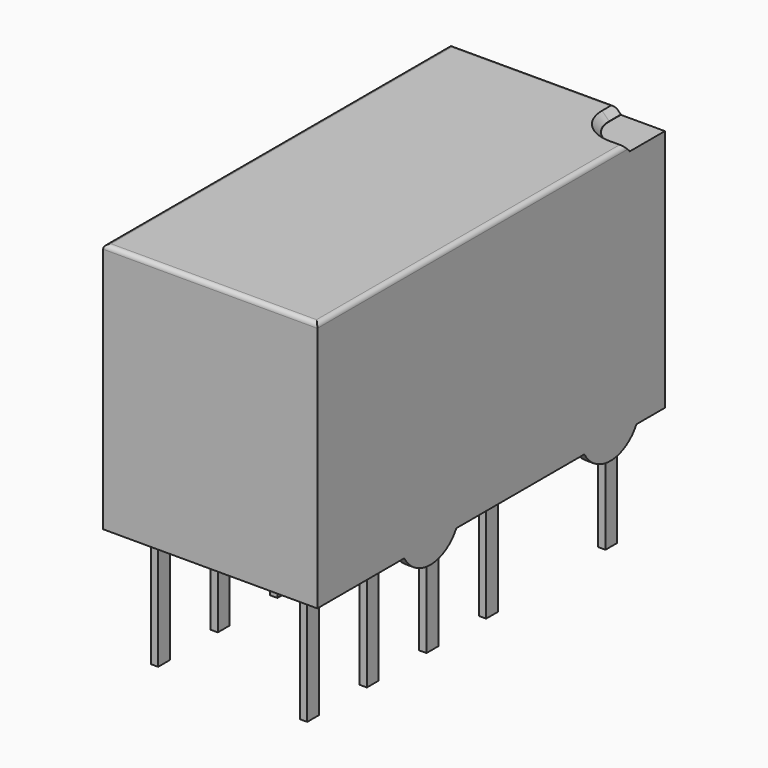
from build123d import *

# Parameters (mm, degrees)
PAD002_DEPTH = 0.3
SKETCH_W     = 14.8
SKETCH_H     = 7.3
PAD_DEPTH    = 8.55
POCKET_DEPTH = 0.25
CHAMFER_SIZE = 0.24
FILLET_R     = 0.15
SKETCH001_W  = 0.5
SKETCH001_H  = 0.25
PAD001_DEPTH = 4
PAD003_DEPTH = 0.3


with BuildPart() as pad002:
    # Sketch003 → Pad002 (new body)
    with BuildSketch(Plane.YZ.offset(6.19)):
        with BuildLine():
            ThreePointArc((-10.21, 1.27), (-8.94, 0), (-7.67, 1.27))
            Line((-10.21, 1.27), (-7.67, 1.27))
        make_face()
        with BuildLine():
            ThreePointArc((-2.54, 1.27), (-1.27, 0), (0, 1.27))
            Line((-2.54, 1.27), (0, 1.27))
        make_face()
    extrude(amount=-PAD002_DEPTH)


with BuildPart() as fillet_body:
    # Sketch → Pad (new body)
    with BuildSketch(Plane(origin=(0, 0, 0.65), x_dir=(0, -1, 0), z_dir=(0, 0, 1))):
        with Locations((6.35, 2.54)):
            Rectangle(SKETCH_W, SKETCH_H)
    extrude(amount=PAD_DEPTH)

    # Sketch002 → Pocket (cut)
    with BuildSketch(Plane(origin=(0, 0, 9.2), x_dir=(0, -1, 0), z_dir=(0, 0, 1))):
        with BuildLine():
            ThreePointArc((-0.55, 4.69), (0.157107, 4.982893), (0.45, 5.690001))
            Line((0.45, 6.19), (0.45, 5.690001))
            Line((-1.05, 6.19), (0.45, 6.19))
            Line((-1.05, 4.69), (-1.05, 6.19))
            Line((-0.55, 4.69), (-1.05, 4.69))
        make_face()
    extrude(amount=-POCKET_DEPTH, mode=Mode.SUBTRACT)

    # Chamfer
    chamfer_edges = [fillet_body.edges().sort_by_distance(p)[0] for p in [
        (4.982893, -0.157107, 9.2),
        (5.94, -0.45, 9.2),
        (4.69, 0.8, 9.2),
    ]]
    chamfer(chamfer_edges, length=CHAMFER_SIZE)

    # Fillet
    fillet_edges = [fillet_body.edges().sort_by_distance(p)[0] for p in [
        (6.19, -7.22, 9.2),
        (1.67, 1.05, 9.2),
        (-1.11, -6.35, 9.2),
        (2.54, -13.75, 9.2),
    ]]
    fillet(fillet_edges, radius=FILLET_R)


with BuildPart() as pad001:
    # Sketch001 → Pad001 (new body)
    with BuildSketch(Plane(origin=(0, 0, 0.6), x_dir=(0, -1, 0), z_dir=(0, 0, 1))):
        Rectangle(SKETCH001_W, SKETCH001_H)
        with Locations((5.08, 0)):
            Rectangle(SKETCH001_W, SKETCH001_H)
        with Locations((0, 5.08)):
            Rectangle(SKETCH001_W, SKETCH001_H)
        with Locations((5.08, 5.08)):
            Rectangle(SKETCH001_W, SKETCH001_H)
        with Locations((7.62, 0)):
            Rectangle(SKETCH001_W, SKETCH001_H)
        with Locations((7.62, 5.08)):
            Rectangle(SKETCH001_W, SKETCH001_H)
        with Locations((10.16, 5.08)):
            Rectangle(SKETCH001_W, SKETCH001_H)
        with Locations((10.16, 0)):
            Rectangle(SKETCH001_W, SKETCH001_H)
        with Locations((12.7, 5.08)):
            Rectangle(SKETCH001_W, SKETCH001_H)
        with Locations((12.7, 0)):
            Rectangle(SKETCH001_W, SKETCH001_H)
    extrude(amount=-PAD001_DEPTH)


with BuildPart() as obj1:
    # Sketch004 → Pad003 (new body)
    with BuildSketch(Plane.YZ.offset(-1.11)):
        with BuildLine():
            ThreePointArc((-10.21, 1.27), (-8.94, 0), (-7.67, 1.27))
            Line((-10.21, 1.27), (-7.67, 1.27))
        make_face()
        with BuildLine():
            ThreePointArc((-2.54, 1.27), (-1.27, 0), (0, 1.27))
            Line((-2.54, 1.27), (0, 1.27))
        make_face()
    extrude(amount=PAD003_DEPTH)

    # obj1: union Pad002, Fillet body, Pad001
    add(pad002.part)
    add(fillet_body.part)
    add(pad001.part)


solid = obj1.part
